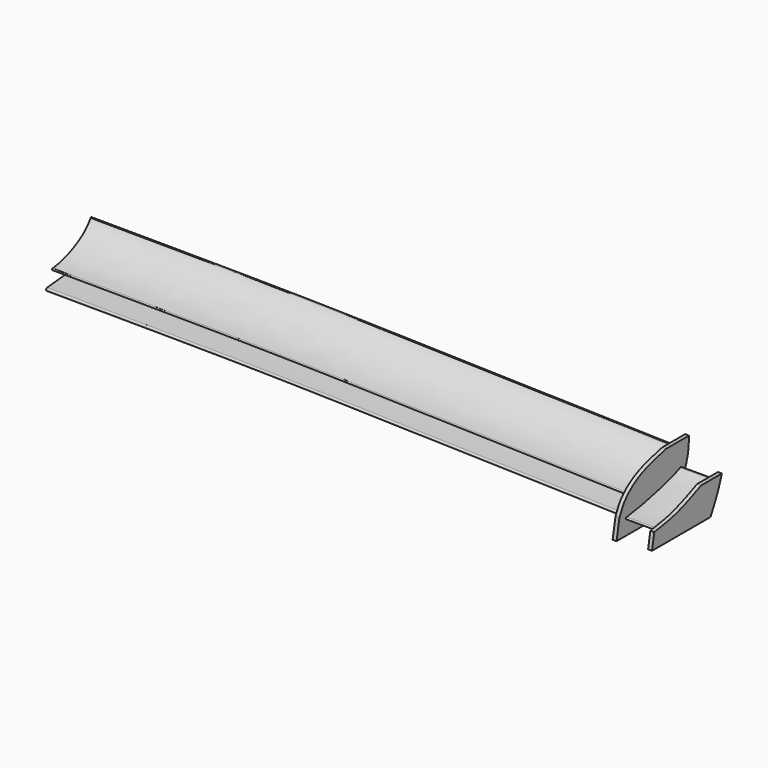
from build123d import *

# Parameters (mm, degrees)
F7_DEPTH  = 5
F9_DEPTH  = 40
F11_DEPTH = 5


with BuildPart() as f3:
    # F3: sweep along a path in F2
    with BuildLine(Plane.XZ) as f3_path:
        add(Plane.XZ * Edge.make_bspline(
            [(748.5097646713, 7.0935692638), (621.1168980248, 10.5360256842), (405.8529082296, 16.3529675841), (240.9707715829, 20.1428526202), (85.1443385823, 20.8786593383), (0, 21.2807077914)],
            knots=[0, 0, 0, 0, 0.3967211274, 0.6703654213, 1, 1, 1, 1], degree=3))
    # F1 (on offset) → F3 (sweep)
    with BuildSketch(Plane.YZ.offset(750)):
        with BuildLine():
            add(Edge.make_bspline(
                [(-41.4995513856, 9.7729321569), (-35.2361796914, 10.6262017267), (-20.7994583483, 12.5929403479), (10.2309208839, 27.3760865869), (19.3095115065, 40.293815395), (19.6305858335, 41.0773769807), (19.6875017136, 41.2162765861)],
                knots=[0, 0, 0, 0, 0.3040827158, 0.7008936477, 0.9469783166, 1, 1, 1, 1], degree=3))
            add(Edge.make_bspline(
                [(-41.4995513856, 9.7729321569), (-42.2690866139, 9.3162154687), (-44.1317062099, 8.2107567164), (-41.0235697153, 7.8088137222), (-39.1995497048, 7.5729321688)],
                knots=[0, 0, 0, 0, 0.4131467477, 1, 1, 1, 1], degree=3))
            add(Edge.make_bspline(
                [(-39.1995497048, 7.5729321688), (-32.9361780105, 8.4262017386), (-18.4994566675, 10.3929403598), (12.5309225648, 25.1760865988), (21.6095131873, 38.093815407), (21.9305875143, 38.8773769926), (21.9875033945, 39.016276598)],
                knots=[0, 0, 0, 0, 0.3040827158, 0.7008936477, 0.9469783166, 1, 1, 1, 1], degree=3))
            ThreePointArc((21.9875033945, 39.016276598), (21.7745451667, 41.0959127719), (19.6875017136, 41.2162765861))
        make_face()
    sweep(path=f3_path.line)


with BuildPart() as f5:
    # F5: sweep along a path in F5_path
    with BuildLine(Plane(origin=(750, -41.4995513856, 9.7729321569), x_dir=(0, 0, -1), z_dir=(0, 1, 0))) as f5_path:
        add(Plane(origin=(750, -41.4995513856, 9.7729321569), x_dir=(0, 0, -1), z_dir=(0, 1, 0)) * Edge.make_bspline(
            [(0, 0), (-1.7212282102, 63.6964333232), (-3.4425782035, 127.3930856059), (-5.1066632643, 189.25592925), (-6.6562135433, 247.4511504184), (-8.0337778507, 300.1446010112), (-9.974807473, 376.78992846), (-10.6589396672, 404.588170859), (-11.2465295617, 430.3508045051), (-11.7489367761, 455.5302755554), (-12.1761772654, 481.5765243888), (-12.9764554741, 544.1092957631), (-13.319210239, 581.6391403064), (-13.5916682625, 621.6912129909), (-13.8170372763, 663.4243731474), (-14.0186688329, 705.9976940971), (-14.2196930595, 748.5698633883)],
            knots=[0, 0, 0, 0, 0, 0, 0, 0.3967211274, 0.3967211274, 0.3967211274, 0.3967211274, 0.3967211274, 0.6703654213, 0.6703654213, 0.6703654213, 0.6703654213, 0.6703654213, 1, 1, 1, 1, 1, 1, 1], degree=6))
    # F4 (on offset) → F5 (sweep)
    with BuildSketch(Plane.YZ.offset(750)):
        with BuildLine():
            add(Edge.make_bspline(
                [(-50.8475750685, -8.0732917413), (-37.5704725511, -6.9659871988), (-13.098935751, -4.9250717337), (17.0842404535, 0.0200777537), (20.4713629072, 1.6766589801), (21.3871411979, 2.124549821)],
                knots=[0, 0, 0, 0, 0.4639142729, 0.8550581865, 1, 1, 1, 1], degree=3))
            add(Edge.make_bspline(
                [(-50.8475750685, -8.0732917413), (-51.5851632229, -8.3789580985), (-53.0088227131, -8.968941557), (-52.412678641, -11.5548392337), (-51.3405719486, -11.2546772077), (-50.8475750685, -11.1166508868)],
                knots=[0, 0, 0, 0, 0.3673773152, 0.7090951748, 1, 1, 1, 1], degree=3))
            add(Edge.make_bspline(
                [(-50.8475750685, -11.1166508868), (-37.5704725511, -10.0093463444), (-13.098935751, -7.9684308792), (17.0842404535, -3.0232813918), (20.4713629072, -1.3667001654), (21.3871411979, -0.9188093245)],
                knots=[0, 0, 0, 0, 0.4639142729, 0.8550581865, 1, 1, 1, 1], degree=3))
            add(Edge.make_bspline(
                [(21.3871411979, 2.124549821), (21.77146515, 2.690600289), (22.5301148337, 3.8079753738), (24.709579365, 1.8853539215), (22.6435311211, 0.1415933882), (21.3871411979, -0.9188093245)],
                knots=[0, 0, 0, 0, 0.2869136534, 0.5663632237, 1, 1, 1, 1], degree=3))
        make_face()
    sweep(path=f5_path.line)


with BuildPart() as f7:
    # F6 (on offset) → F7 (new body)
    with BuildSketch(Plane.YZ.offset(750)):
        with BuildLine():
            Line((-79.174913466, 4.1074641049), (-83.8691585247, -20.5373205245))
            Line((-83.8691585247, -20.5373205245), (8.073288016, -20.5373205245))
            add(Edge.make_bspline(
                [(31.8682556972, 51.1308461428), (31.6497456071, 43.0311234397), (30.9938735656, 24.3708730184), (16.609037753, -3.9518476484), (8.073288016, -20.5373205245)],
                knots=[0, 0, 0, 0, 0.4141061669, 1, 1, 1, 1], degree=3))
            Line((31.8682556972, 51.1308461428), (-4.7785518691, 51.1308461428))
            add(Edge.make_bspline(
                [(-79.174913466, 4.1074641049), (-76.8821031793, 9.3066063796), (-71.6111738119, 21.2588868888), (-46.7506008965, 41.2141186351), (-19.6210204463, 47.6240191035), (-4.7785518691, 51.1308461428)],
                knots=[0, 0, 0, 0, 0.258536813, 0.5943489036, 1, 1, 1, 1], degree=3))
        make_face()
    extrude(amount=F7_DEPTH)

    # F8 (on face) → F9 (join)
    with BuildSketch(Plane.YZ.offset(755)):
        with BuildLine():
            add(Edge.make_bspline(
                [(-67.4168542027, 0), (-61.852634836, 0.7200835777), (-47.7279966339, 2.5479985715), (-1.8877026192, 12.5224909439), (12.1740601405, 18.4347917064), (17.8484339267, 20.820595324)],
                knots=[0, 0, 0, 0, 0.2793833589, 0.7092079956, 1, 1, 1, 1], degree=3))
            add(Edge.make_bspline(
                [(-67.4168542027, 0), (-68.4646549784, -0.5051371118), (-70.4936471296, -1.4832994295), (-68.4197574004, -1.8315777273), (-67.4168542027, -2.000000095)],
                knots=[0, 0, 0, 0, 0.5164144055, 1, 1, 1, 1], degree=3))
            add(Edge.make_bspline(
                [(-67.4168542027, -2.000000095), (-61.852634836, -1.2799165173), (-47.7279966339, 0.5479984765), (-1.8877026192, 10.5224908489), (12.1740601405, 16.4347916114), (17.8484339267, 18.820595229)],
                knots=[0, 0, 0, 0, 0.2793833589, 0.7092079956, 1, 1, 1, 1], degree=3))
            add(Edge.make_bspline(
                [(17.8484339267, 20.820595324), (18.6943567, 20.9705880657), (20.205856365, 21.238595957), (19.4242615177, 19.4415220917), (18.4074688707, 19.0408730157), (17.8484339267, 18.820595229)],
                knots=[0, 0, 0, 0, 0.3639421534, 0.650293928, 1, 1, 1, 1], degree=3))
        make_face()
    extrude(amount=F9_DEPTH)

    # F10 (on face) → F11 (join)
    with BuildSketch(Plane.YZ.offset(795)):
        with BuildLine():
            Line((-79.8460021615, 2.6910970919), (-83.5285559297, -16.8547667563))
            Line((-83.5285559297, -16.8547667563), (9.9516669288, -16.8547667563))
            add(Edge.make_bspline(
                [(28.0811600387, 24.7864220291), (26.3790136502, 19.4538398293), (22.5481959469, 7.4524335852), (14.4510241565, -8.1724720239), (9.9516669288, -16.8547667563)],
                knots=[0, 0, 0, 0, 0.4443297803, 1, 1, 1, 1], degree=3))
            Line((28.0811600387, 24.7864220291), (-5.3450986743, 24.7864220291))
            add(Edge.make_bspline(
                [(-79.8460021615, 2.6910970919), (-69.4017372567, 4.1390805049), (-48.4754616578, 7.040280373), (-17.4652269799, 19.2945980487), (-8.704412638, 23.2642631445), (-5.3450986743, 24.7864220291)],
                knots=[0, 0, 0, 0, 0.380548776, 0.7624728632, 1, 1, 1, 1], degree=3))
        make_face()
    extrude(amount=F11_DEPTH)


solid = Compound([f3.part, f5.part, f7.part])
